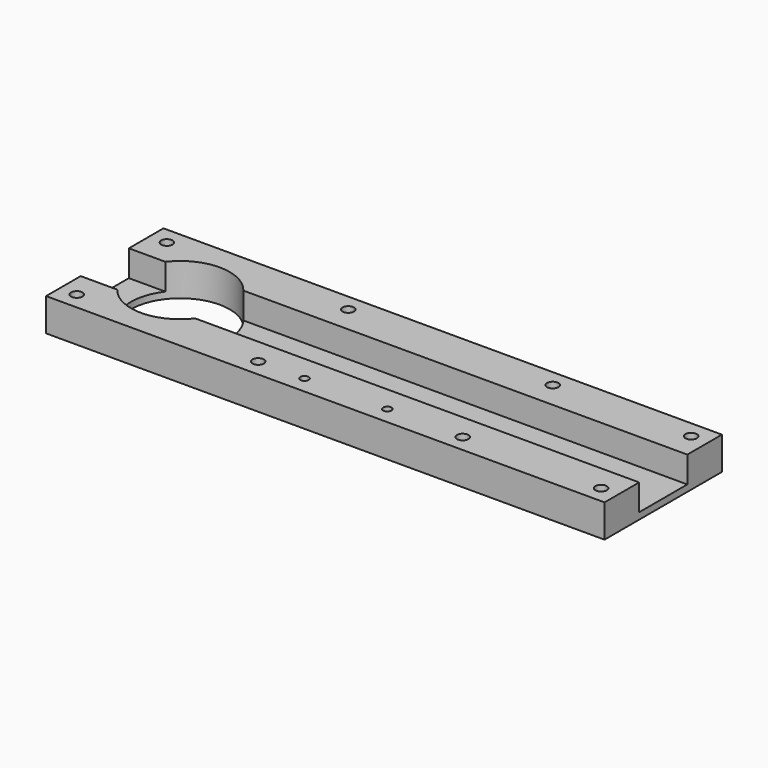
from build123d import *

# Parameters (mm, degrees)
F0_W     = 323.85
F0_H     = 85.09
F1_DEPTH = 19.05
F2_R     = 28.575
F3_DEPTH = 19.051
F4_R     = 3.302
F5_DEPTH = 19.051
F6_R     = 2.413
F7_DEPTH = 19.051
F9_DEPTH = 15.24


with BuildPart() as f1:
    # F0 (on Top) → F1 (new body)
    with BuildSketch(Plane.XY):
        with Locations((161.925, 42.545)):
            Rectangle(F0_W, F0_H)
    extrude(amount=F1_DEPTH)

    # F2 (on face) → F3 (cut, through all)
    with BuildSketch(Plane.XY.offset(19.05)):
        with Locations((43.815, 42.545)):
            Circle(F2_R)
    extrude(amount=-F3_DEPTH, mode=Mode.SUBTRACT)

    # F4 (on face) → F5 (cut, through all)
    with BuildSketch(Plane.XY.offset(19.05)):
        with Locations((9.906, 75.184)):
            Circle(F4_R)
        with Locations((115.062, 75.184)):
            Circle(F4_R)
        with Locations((233.68, 75.184)):
            Circle(F4_R)
        with Locations((313.944, 75.184)):
            Circle(F4_R)
        with Locations((115.062, 9.906)):
            Circle(F4_R)
        with Locations((9.906, 9.906)):
            Circle(F4_R)
        with Locations((233.68, 9.906)):
            Circle(F4_R)
        with Locations((313.944, 9.906)):
            Circle(F4_R)
    extrude(amount=-F5_DEPTH, mode=Mode.SUBTRACT)

    # F6 (on face) → F7 (cut, through all)
    with BuildSketch(Plane.XY.offset(19.05)):
        with Locations((141.859, 10.033)):
            Circle(F6_R)
        with Locations((189.865, 10.033)):
            Circle(F6_R)
    extrude(amount=-F7_DEPTH, mode=Mode.SUBTRACT)

    # F8 (on face) → F9 (cut)
    with BuildSketch(Plane.XY.offset(19.05)):
        with BuildLine():
            Line((323.85, 60.0075), (66.433393, 60.0075))
            ThreePointArc((66.433393, 60.0075), (70.859881, 51.770238), (72.39, 42.545))
            ThreePointArc((72.39, 42.545), (70.859881, 33.319762), (66.433393, 25.0825))
            Line((66.433393, 25.0825), (323.85, 25.0825))
            Line((323.85, 25.0825), (323.85, 60.0075))
        make_face()
        with BuildLine():
            Line((21.196607, 60.0075), (0, 60.0075))
            Line((0, 60.0075), (0, 25.0825))
            Line((0, 25.0825), (21.196607, 25.0825))
            ThreePointArc((21.196607, 25.0825), (15.24, 42.545), (21.196607, 60.0075))
        make_face()
    extrude(amount=-F9_DEPTH, mode=Mode.SUBTRACT)


solid = f1.part
